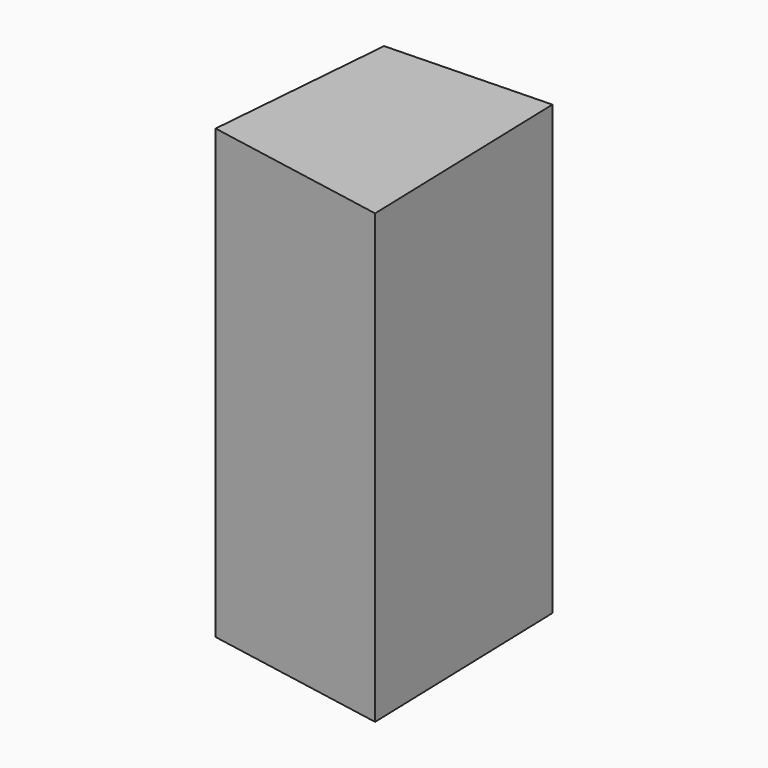
from build123d import *

# Parameters (mm, degrees)
F1_DEPTH      = 117.168218
F1_DEPTH_BACK = 117.088214


with BuildPart() as f1:
    # F0 (on Top) → F1 (new body, two sides)
    with BuildSketch(Plane.XY) as f1_sk:
        Polygon((48.481814, 58.85734), (-37.542495, 56.307481), (-45.743853, -43.644115), (52.051431, -61.570404), align=None)
    extrude(amount=F1_DEPTH)
    extrude(f1_sk.sketch, amount=-F1_DEPTH_BACK)


solid = f1.part
